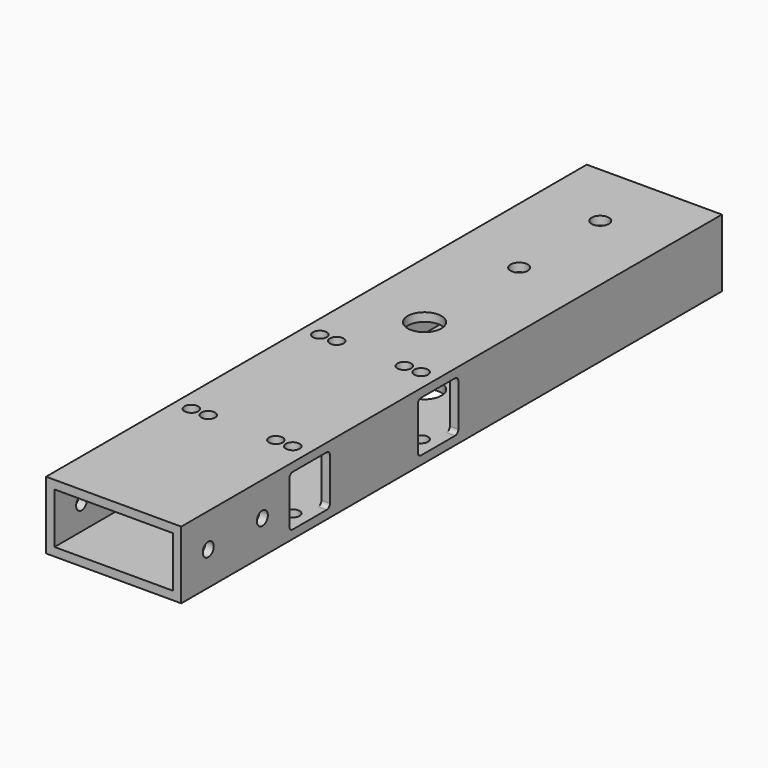
from build123d import *

# Parameters (mm, degrees)
F0_W     = 50.8
F0_H     = 25.4
F0_W_2   = 44.45
F0_H_2   = 19.05
F1_DEPTH = 254
F2_R     = 3.2385
F2_R_2   = 6.35
F2_R_3   = 2.5781
F3_DEPTH = 25.4
F4_R     = 2.5781
F5_DEPTH = 50.801
F7_DEPTH = 50.801


with BuildPart() as f1:
    # F0 (on Front) → F1 (new body)
    with BuildSketch(Plane.XZ):
        with Locations((-25.4, 12.7)):
            Rectangle(F0_W, F0_H)
        with Locations((-25.4, 12.7)):
            Rectangle(F0_W_2, F0_H_2, mode=Mode.SUBTRACT)
    extrude(amount=F1_DEPTH)

    # F2 (on face) → F3 (cut)
    with BuildSketch(Plane.XY.offset(25.4)):
        with Locations((-25.4, -63.5)):
            Circle(F2_R)
        with Locations((-25.4, -25.4)):
            Circle(F2_R)
        with Locations((-25.4, -107.95)):
            Circle(F2_R_2)
        with Locations((-44.45, -133.35)):
            Circle(F2_R_3)
        with Locations((-38.1, -133.35)):
            Circle(F2_R_3)
        with Locations((-12.7, -133.35)):
            Circle(F2_R_3)
        with Locations((-6.35, -133.35)):
            Circle(F2_R_3)
        with Locations((-44.45, -193.675)):
            Circle(F2_R_3)
        with Locations((-38.1, -193.675)):
            Circle(F2_R_3)
        with Locations((-12.7, -193.675)):
            Circle(F2_R_3)
        with Locations((-6.35, -193.675)):
            Circle(F2_R_3)
    extrude(amount=-F3_DEPTH, mode=Mode.SUBTRACT)

    # F4 (on face) → F5 (cut, through all)
    with BuildSketch(Plane.YZ):
        with Locations((-241.3, 12.7)):
            Circle(F4_R)
        with Locations((-215.9, 12.7)):
            Circle(F4_R)
    extrude(amount=-F5_DEPTH, mode=Mode.SUBTRACT)

    # F6 (on face) → F7 (cut, through all)
    with BuildSketch(Plane(origin=(-50.8, 0, 0), x_dir=(0, -1, 0), z_dir=(-1, 0, 0))):
        with BuildLine():
            Line((201.66838, 22.225), (185.68162, 22.225))
            ThreePointArc((185.68162, 22.225), (184.598601, 21.776399), (184.15, 20.69338))
            Line((184.15, 20.69338), (184.15, 4.70662))
            ThreePointArc((184.15, 4.70662), (184.598601, 3.623601), (185.68162, 3.175))
            Line((185.68162, 3.175), (201.66838, 3.175))
            ThreePointArc((201.66838, 3.175), (202.751399, 3.623601), (203.2, 4.70662))
            Line((203.2, 4.70662), (203.2, 20.69338))
            ThreePointArc((203.2, 20.69338), (202.751399, 21.776399), (201.66838, 22.225))
        make_face()
        with BuildLine():
            Line((141.34338, 22.225), (125.35662, 22.225))
            ThreePointArc((125.35662, 22.225), (124.273601, 21.776399), (123.825, 20.69338))
            Line((123.825, 20.69338), (123.825, 4.70662))
            ThreePointArc((123.825, 4.70662), (124.273601, 3.623601), (125.35662, 3.175))
            Line((125.35662, 3.175), (141.34338, 3.175))
            ThreePointArc((141.34338, 3.175), (142.426399, 3.623601), (142.875, 4.70662))
            Line((142.875, 4.70662), (142.875, 20.69338))
            ThreePointArc((142.875, 20.69338), (142.426399, 21.776399), (141.34338, 22.225))
        make_face()
    extrude(amount=-F7_DEPTH, mode=Mode.SUBTRACT)


solid = f1.part
